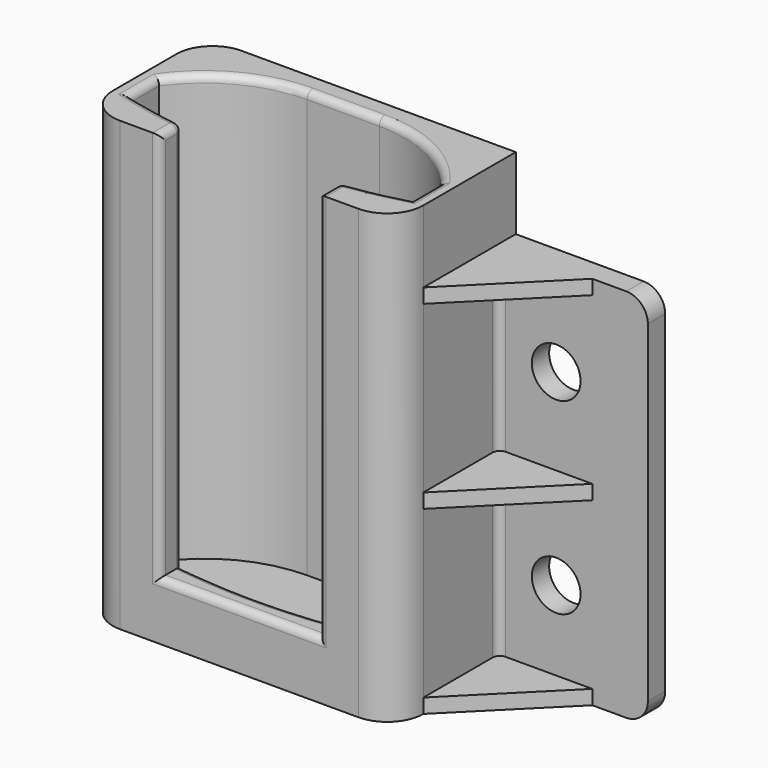
from build123d import *

# Parameters (mm, degrees)
SKETCH_W            = 25.4
SKETCH_H            = 52
SKETCH_R            = 3.375
PAD_DEPTH           = 3
PAD001_DEPTH        = 62
POCKET_DEPTH        = 59
SKETCH004_W         = 22
SKETCH004_H         = 54
POCKET001_DEPTH     = 5
FILLET_R            = 3
PAD002_DEPTH        = 2
LINEARPATTERN_COUNT = 3
LINEARPATTERN_PITCH = 25
FILLET001_R         = 1


with BuildPart() as part:
    # Sketch → Pad (new body)
    with BuildSketch(Plane.XZ):
        with Locations((0, 26)):
            Rectangle(SKETCH_W, SKETCH_H)
        with Locations((0, 39)):
            Circle(SKETCH_R, mode=Mode.SUBTRACT)
        with Locations((0, 13)):
            Circle(SKETCH_R, mode=Mode.SUBTRACT)
    extrude(amount=PAD_DEPTH)

    # Sketch001 → Pad001 (join)
    with BuildSketch(Plane.XY):
        with BuildLine():
            Line((-51, -5), (-51, -16))
            ThreePointArc((-51, -16), (-49.535534, -19.535534), (-46, -21))
            Line((-46, -21), (-13, -21))
            ThreePointArc((-13, -21), (-9.464466, -19.535534), (-8, -16))
            Line((-8, -16), (-8, 0))
            Line((-46, 0), (-8, 0))
            ThreePointArc((-46, 0), (-49.535534, -1.464466), (-51, -5))
        make_face()
    extrude(amount=PAD001_DEPTH)

    # Sketch003 → Pocket (cut)
    with BuildSketch(Plane(origin=(0, 0, 62), x_dir=(-1, 0, 0), z_dir=(0, 0, 1))):
        with BuildLine():
            Line((49, 15.5), (49, 10.5))
            ThreePointArc((34.5, 3), (42.662414, 4.986), (49, 10.5))
            Line((24.5, 3), (34.5, 3))
            ThreePointArc((10, 10.5), (16.337586, 4.986), (24.5, 3))
            Line((10, 10.5), (10, 15.5))
            ThreePointArc((49, 15.5), (29.5, 18), (10, 15.5))
        make_face()
    extrude(amount=-POCKET_DEPTH, mode=Mode.SUBTRACT)

    # Sketch004 (on Face11 of Pocket) → Pocket001 (cut)
    with BuildSketch(Plane.XZ.offset(21)):
        with Locations((-29.5, 35)):
            Rectangle(SKETCH004_W, SKETCH004_H)
    extrude(amount=-POCKET001_DEPTH, mode=Mode.SUBTRACT)

    # Fillet
    fillet_edges = [part.edges().sort_by_distance(p)[0] for p in [
        (12.7, -1.5, 52),
        (12.7, -1.5, 0),
    ]]
    fillet(fillet_edges, radius=FILLET_R)

    # Sketch005 → Pad002 (join)
    with BuildSketch(Plane.XY):
        Polygon((-8, -16), (-8, -3), (5, -3), align=None)
    pad002 = extrude(amount=PAD002_DEPTH)

    # LinearPattern: Pad002 ×3
    with Locations(*[(0, 0, i * LINEARPATTERN_PITCH) for i in range(1, LINEARPATTERN_COUNT)]):
        add(pad002)

    # Fillet001
    fillet001_edges = [part.edges().sort_by_distance(p)[0] for p in [
        (-8, -3, 38.5),
        (-8, -3, 13.5),
        (-18.5, -21, 35),
        (-29.5, -21, 8),
        (-40.5, -21, 35),
        (-40.5, -19.106666, 62),
        (-18.5, -19.106666, 62),
        (-40.5, -17.213332, 35),
        (-29.5, -18, 8),
        (-18.5, -17.213332, 35),
        (-14.225957, -16.475944, 62),
        (-10, -13, 62),
        (-16.337586, -4.986, 62),
        (-29.5, -3, 62),
        (-42.662414, -4.986, 62),
        (-49, -13, 62),
        (-44.774043, -16.475944, 62),
    ]]
    fillet(fillet001_edges, radius=FILLET001_R)


solid = part.part
